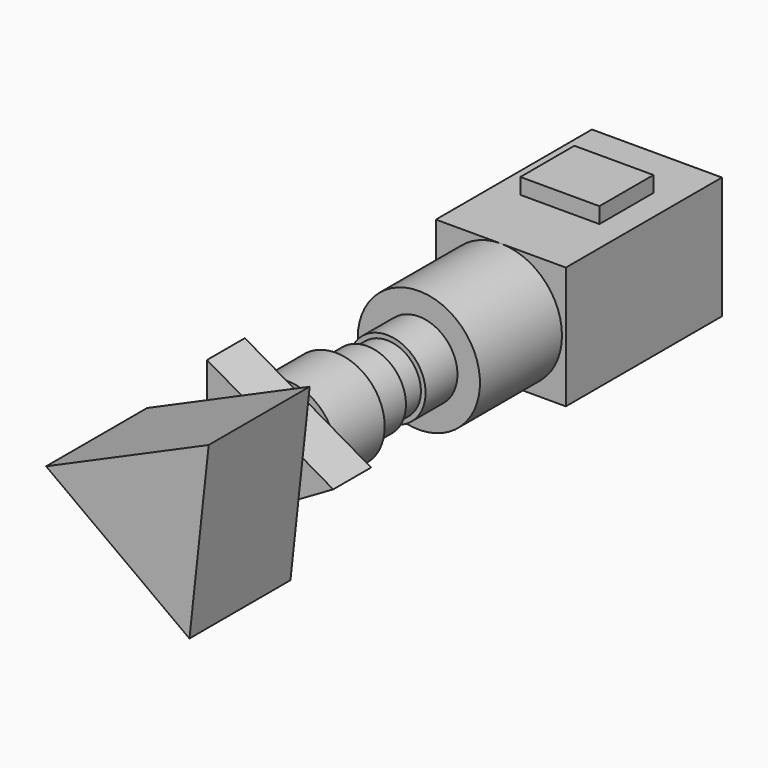
from build123d import *

# Parameters (mm, degrees)
F0_R          = 62.5146568837
F1_DEPTH      = 93.62484
F1_DEPTH_BACK = 67.66725
F2_R          = 78.9516087872
F3_DEPTH      = 97.98912
F4_R          = 54.5557763687
F5_DEPTH      = 40.02087
F6_R          = 62.0868515923
F7_DEPTH      = 64.06144
F8_R          = 98.3447043225
F9_DEPTH      = 164.96345
F11_DEPTH     = 313.96558
F12_W         = 63.6207908392
F12_H         = 54.3301105499
F13_DEPTH     = 25.4
F15_DEPTH     = 76.2
F17_DEPTH     = 203.2
F18_W         = 123.2421994209
F18_H         = 87.3634591699
F18_R         = 9.0836409793
F20_DEPTH     = 7.62
F22_DEPTH     = 12.18293


with BuildPart() as f1:
    # F0 (on Front) → F1 (new body, two sides)
    with BuildSketch(Plane.XZ) as f1_sk:
        Circle(F0_R)
    extrude(amount=F1_DEPTH)
    extrude(f1_sk.sketch, amount=-F1_DEPTH_BACK)

    # F2 (on face) → F3 (join)
    with BuildSketch(Plane.XZ.offset(93.62484)):
        Circle(F2_R)
    extrude(amount=-F3_DEPTH)

    # F4 (on face) → F5 (join)
    with BuildSketch(Plane(origin=(0, 67.66725, 0), x_dir=(-1, 0, 0), z_dir=(0, 1, 0))):
        Circle(F4_R)
    extrude(amount=F5_DEPTH)

    # F6 (on face) → F7 (join)
    with BuildSketch(Plane(origin=(0, 107.68812, 0), x_dir=(-1, 0, 0), z_dir=(0, 1, 0))):
        Circle(F6_R)
    extrude(amount=F7_DEPTH)

    # F8 (on face) → F9 (join)
    with BuildSketch(Plane(origin=(0, 171.74956, 0), x_dir=(-1, 0, 0), z_dir=(0, 1, 0))):
        Circle(F8_R)
    extrude(amount=F9_DEPTH)

    # F10 (on face) → F11 (join)
    with BuildSketch(Plane(origin=(0, 336.71301, 0), x_dir=(-1, 0, 0), z_dir=(0, 1, 0))):
        with BuildLine():
            add(Edge.make_bspline(
                [(0, -91.3981422782), (-40.1217959726, -92.0347084682), (-83.3063936827, -46.5341806253), (-83.5479795933, 0)],
                knots=[0.748537523, 0.748537523, 0.748537523, 0.748537523, 1, 1, 1, 1], degree=3))
            Line((-83.5479795933, 0), (-104.587353766, 0))
            Line((-104.587353766, 0), (-104.587353766, -98.3447043225))
            Line((-104.587353766, -98.3447043225), (0, -98.3447043225))
            Line((0, -98.3447043225), (0, -91.3981422782))
        make_face()
        with BuildLine():
            Line((-104.587353766, 0), (-83.5479795933, 0))
            add(Edge.make_bspline(
                [(-83.5479795933, 0), (-83.7916500228, 46.9356998238), (-40.34804577, 94.9229670887), (0, 94.285428524)],
                knots=[0, 0, 0, 0, 0.2536322157, 0.2536322157, 0.2536322157, 0.2536322157], degree=3))
            Line((0, 94.285428524), (0, 98.3447043225))
            Line((0, 98.3447043225), (-104.587353766, 98.3447043225))
            Line((-104.587353766, 98.3447043225), (-104.587353766, 0))
        make_face()
        with BuildLine():
            Line((0, 98.3447043225), (0, 94.285428524))
            add(Edge.make_bspline(
                [(0, 94.285428524), (39.5484573968, 93.6605242373), (76.1228316851, 46.3189404004), (75.8891776204, 0)],
                knots=[0.2536322157, 0.2536322157, 0.2536322157, 0.2536322157, 0.5022381317, 0.5022381317, 0.5022381317, 0.5022381317], degree=3))
            Line((75.8891776204, 0), (104.587353766, 0))
            Line((104.587353766, 0), (104.587353766, 98.3447043225))
            Line((104.587353766, 98.3447043225), (0, 98.3447043225))
        make_face()
        with BuildLine():
            Line((104.587353766, 0), (75.8891776204, 0))
            add(Edge.make_bspline(
                [(75.8891776204, 0), (75.6576913596, -45.8892009211), (39.2980059924, -90.7746462122), (0, -91.3981422782)],
                knots=[0.5022381317, 0.5022381317, 0.5022381317, 0.5022381317, 0.748537523, 0.748537523, 0.748537523, 0.748537523], degree=3))
            Line((0, -91.3981422782), (0, -98.3447043225))
            Line((0, -98.3447043225), (104.587353766, -98.3447043225))
            Line((104.587353766, -98.3447043225), (104.587353766, 0))
        make_face()
    extrude(amount=F11_DEPTH)

    # F12 (on face) → F13 (join)
    with BuildSketch(Plane.XY.offset(98.3447043225)):
        with Locations((31.8103954196, 536.9567275047)):
            Rectangle(F12_W, F12_H)
        with Locations((-31.8103954196, 536.9567275047)):
            Rectangle(F12_W, F12_H)
        with Locations((31.8103954196, 482.6266169548)):
            Rectangle(F12_W, F12_H)
        with Locations((-31.8103954196, 482.6266169548)):
            Rectangle(F12_W, F12_H)
    extrude(amount=F13_DEPTH)

    # F14 (on face) → F15 (join)
    with BuildSketch(Plane.XZ.offset(93.62484)):
        Polygon((-67.7192732692, 117.2932219539), (-67.7192732692, -117.2932219539), (135.4385465384, 0), align=None)
    extrude(amount=F15_DEPTH)

    # F16 (on face) → F17 (join)
    with BuildSketch(Plane.XZ.offset(169.82484)):
        Polygon((97.5546226371, 133.206090602), (-164.1371697187, 17.8817361593), (66.5825470816, -151.0878267614), align=None)
    extrude(amount=F17_DEPTH)

    # F18 (on face) → F20 (join)
    with BuildSketch(Plane(origin=(-104.587353766, 0, 0), x_dir=(0, -1, 0), z_dir=(-1, 0, 0))):
        with Locations((-559.6050322056, 43.6817295849)):
            Rectangle(F18_W, F18_H)
        with Locations((-615.2921915054, -17.6525395364)):
            Circle(F18_R)
        with BuildLine():
            ThreePointArc((-563.9078745674, -17.6525395364), (-572.3003745079, -9.2600395959), (-580.6928744484, -17.6525395364))
            ThreePointArc((-580.6928744484, -17.6525395364), (-572.3003745079, -26.0450394768), (-563.9078745674, -17.6525395364))
        make_face()
    extrude(amount=F20_DEPTH)

    # F21 (on face) → F22 (cut)
    with BuildSketch(Plane(origin=(-112.207353766, 0, 0), x_dir=(0, -1, 0), z_dir=(-1, 0, 0))):
        Polygon((-572.8379487991, 13.5121122003), (-608.2543730736, 67.1958848834), (-608.2543730736, 13.5121122003), align=None)
        Polygon((-601.2495756149, 71.9198659062), (-601.1453866959, 67.6123201847), (-565.961514646, 14.2810472532), (-506.7166686058, 14.2810472532), (-506.7166686058, 71.9198659062), align=None)
    extrude(amount=-F22_DEPTH, mode=Mode.SUBTRACT)


solid = f1.part
